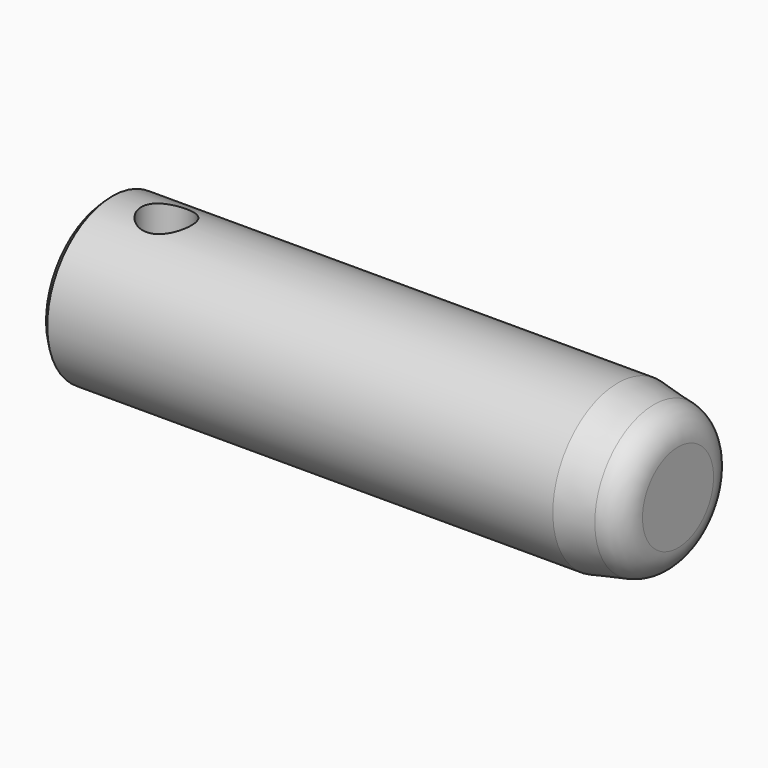
from build123d import *

# Parameters (mm, degrees)
SKETCH001_R       = 4.15
POCKET_DEPTH      = 13.501
POCKET_DEPTH_BACK = -13.501


with BuildPart() as part:
    # Sketch → Revolution (revolve)
    with BuildSketch(Plane.XZ):
        with BuildLine():
            Line((-95, 0), (-95, 12.5))
            Line((-95, 12.5), (-94, 13.5))
            Line((-94, 13.5), (-10, 13.5))
            Line((-10, 13.5), (-4.00316, 12.279929))
            ThreePointArc((0, 7.380306), (-1.128037, 10.543832), (-4.00316, 12.279929))
            Line((0, 7.380306), (0, 0))
            Line((0, 0), (-95, 0))
        make_face()
    revolve(axis=Axis((0, 0, 0), (1, 0, 0)))

    # Sketch001 → Pocket (cut, two sides)
    with BuildSketch(Plane.XY) as pocket_sk:
        with Locations((-85, 0)):
            Circle(SKETCH001_R)
    extrude(amount=-POCKET_DEPTH, mode=Mode.SUBTRACT)
    extrude(pocket_sk.sketch, amount=-POCKET_DEPTH_BACK, mode=Mode.SUBTRACT)


solid = part.part
